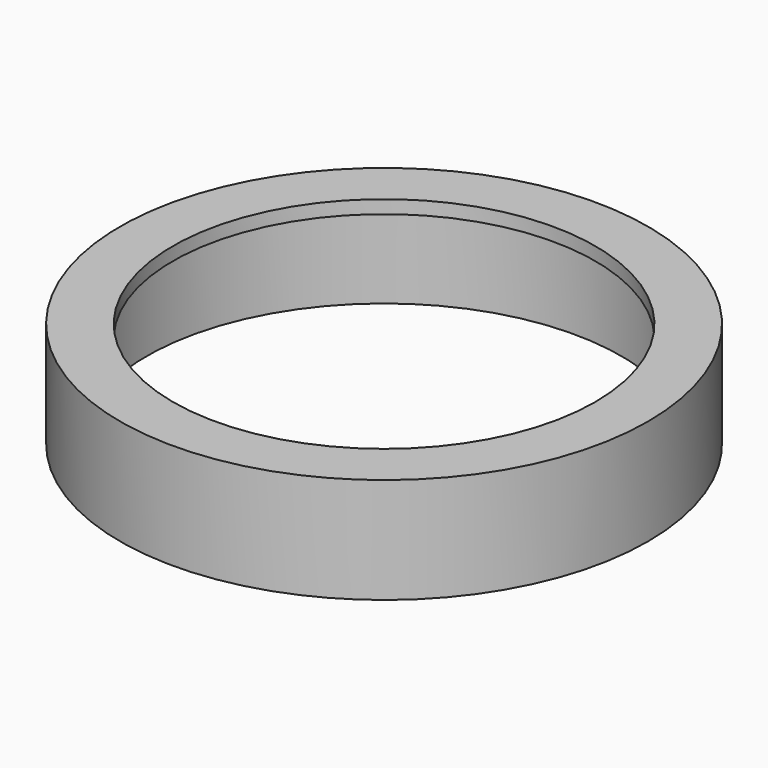
from build123d import *

# Parameters (mm, degrees)
F0_R     = 10
F1_DEPTH = 4
F2_R     = 8
F3_DEPTH = 25
F4_R     = 9
F5_DEPTH = 3.5


with BuildPart() as f1:
    # F0 (on Top) → F1 (new body)
    with BuildSketch(Plane.XY):
        Circle(F0_R)
        Circle(F0_R)
    extrude(amount=F1_DEPTH)

    # F2 (on face) → F3 (cut)
    with BuildSketch(Plane.XY.offset(4)):
        Circle(F2_R)
    extrude(amount=-F3_DEPTH, mode=Mode.SUBTRACT)

    # F4 (on face) → F5 (cut)
    with BuildSketch(Plane(origin=(0, 0, 0), x_dir=(1, 0, 0), z_dir=(0, 0, -1))):
        Circle(F4_R)
    extrude(amount=-F5_DEPTH, mode=Mode.SUBTRACT)


solid = f1.part
